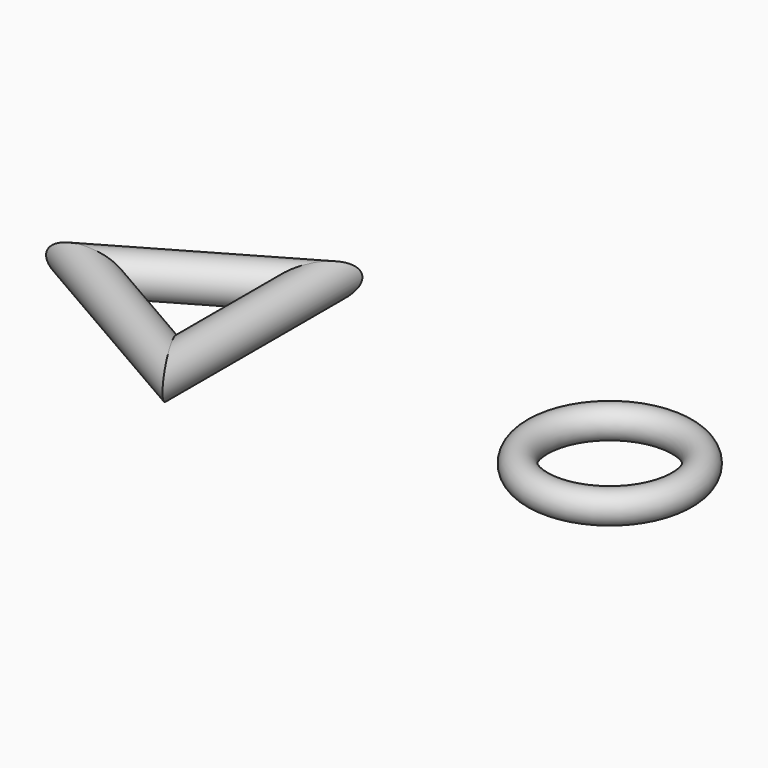
from build123d import *

# Parameters (mm, degrees)
F0_R = 0.75
F3_R = 1


with BuildPart() as f1:
    # F0 (on Front) → F1 (revolve)
    with BuildSketch(Plane.XZ):
        with Locations((-3.5, 0)):
            Circle(F0_R)
    revolve(axis=Axis((0, 0, 0.4413176794), (0, 0, 1)))


with BuildPart() as f4:
    # F4: sweep along a path in F2
    with BuildLine(Plane.XY) as f4_path:
        Line((-25.3525223394, 0), (-17.8525223394, 4.3301270189))
        Line((-17.8525223394, 4.3301270189), (-17.8525223394, -4.3301270189))
        Line((-17.8525223394, -4.3301270189), (-25.3525223394, 0))
    # F3 (on Front) → F4 (sweep)
    with BuildSketch(Plane.XZ):
        with Locations((-17.8525242954, 0)):
            Circle(F3_R)
    sweep(path=f4_path.line, transition=Transition.RIGHT)


solid = Compound([f1.part, f4.part])
